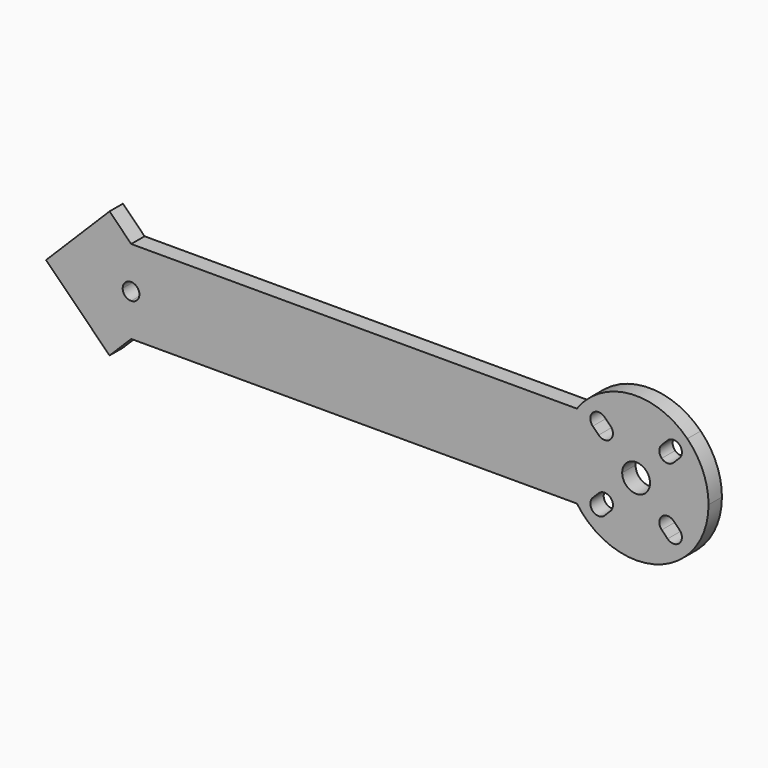
from build123d import *

# Parameters (mm, degrees)
F1_DEPTH = 3


with BuildPart() as f1:
    # F0 (on Front) → F1 (new body)
    with BuildSketch(Plane.XZ):
        with BuildLine():
            Line((0, 6.0002646259), (0, 0))
            Line((0, 0), (80, 0))
            ThreePointArc((80, 0), (77.6183802908, 7.5), (80, 15))
            Line((80, 15), (0, 15))
            Line((0, 15), (0, 8.9997353741))
            ThreePointArc((0, 8.9997353741), (1.0424004603, 8.5506517288), (1.4718254069, 7.5))
            ThreePointArc((1.4718254069, 7.5), (1.0424004603, 6.4493482712), (0, 6.0002646259))
        make_face()
        with BuildLine():
            Line((-3.8890872965, -3.8890872965), (0, 0))
            Line((0, 0), (0, 6.0002646259))
            ThreePointArc((0, 6.0002646259), (-1.0788263218, 6.4294249467), (-1.5281745931, 7.5))
            Line((-1.5281745931, 7.5), (-3.8890872965, 7.5))
            Line((-3.8890872965, 7.5), (-3.8890872965, -3.8890872965))
        make_face()
        with BuildLine():
            ThreePointArc((80, 15), (77.6183802908, 7.5), (80, 0))
            Line((80, 0), (80, 7.5))
            Line((80, 7.5), (80, 15))
        make_face()
        with BuildLine():
            Line((80, 7.5), (80, 0))
            ThreePointArc((80, 0), (94.5529105181, -4.89029749), (103.6183802908, 7.5))
            ThreePointArc((103.6183802908, 7.5), (102.6288142134, 12.4748846207), (99.8107684462, 16.6923881554))
            Line((99.8107684462, 16.6923881554), (98.3965548838, 15.2781745931))
            ThreePointArc((98.3965548838, 15.2781745931), (98.7217140108, 14.7915395698), (98.8358947121, 14.2175144213))
            ThreePointArc((98.8358947121, 14.2175144213), (98.7217140108, 13.6434892727), (98.3965548838, 13.1568542495))
            Line((98.3965548838, 13.1568542495), (97.3358947121, 12.0961940777))
            ThreePointArc((97.3358947121, 12.0961940777), (96.2752345403, 11.6568542495), (95.2145743685, 12.0961940777))
            Line((95.2145743685, 12.0961940777), (92.3861472438, 9.267766953))
            ThreePointArc((92.3861472438, 9.267766953), (92.9280791221, 8.4567085809), (93.1183802908, 7.5))
            ThreePointArc((93.1183802908, 7.5), (90.6183802908, 5), (88.1183802908, 7.5))
            Line((88.1183802908, 7.5), (80, 7.5))
        make_face()
        with BuildLine():
            ThreePointArc((83.9008658695, 2.9038059223), (85.5355511899, 3.2289650493), (86.4615260413, 1.8431457505))
            ThreePointArc((86.4615260413, 1.8431457505), (86.3473453401, 1.269120602), (86.0221862131, 0.7824855787))
            Line((86.0221862131, 0.7824855787), (84.9615260413, -0.2781745931))
            ThreePointArc((84.9615260413, -0.2781745931), (82.8402056977, -0.2781745931), (82.8402056977, 1.8431457505))
            Line((82.8402056977, 1.8431457505), (83.9008658695, 2.9038059223))
        make_face(mode=Mode.SUBTRACT)
        with BuildLine():
            ThreePointArc((95.2145743685, 0.7824855787), (95.2145743685, 2.9038059223), (97.3358947121, 2.9038059223))
            Line((97.3358947121, 2.9038059223), (98.3965548838, 1.8431457505))
            ThreePointArc((98.3965548838, 1.8431457505), (98.7217140108, 1.3565107273), (98.8358947121, 0.7824855787))
            ThreePointArc((98.8358947121, 0.7824855787), (97.9099198606, -0.60333372), (96.2752345403, -0.2781745931))
            Line((96.2752345403, -0.2781745931), (95.2145743685, 0.7824855787))
        make_face(mode=Mode.SUBTRACT)
        Polygon((-15.2781745931, 7.5), (-3.8890872965, -3.8890872965), (-3.8890872965, 7.5), align=None)
        with BuildLine():
            Line((80, 15), (80, 7.5))
            Line((80, 7.5), (88.1183802908, 7.5))
            ThreePointArc((88.1183802908, 7.5), (88.3086814595, 8.4567085809), (88.8506133378, 9.267766953))
            Line((88.8506133378, 9.267766953), (86.0221862131, 12.0961940777))
            ThreePointArc((86.0221862131, 12.0961940777), (84.9615260413, 11.6568542495), (83.9008658695, 12.0961940777))
            Line((83.9008658695, 12.0961940777), (82.8402056977, 13.1568542495))
            ThreePointArc((82.8402056977, 13.1568542495), (82.4008658695, 14.2175144213), (82.8402056977, 15.2781745931))
            Line((82.8402056977, 15.2781745931), (81.4259921354, 16.6923881554))
            ThreePointArc((81.4259921354, 16.6923881554), (80.6769175702, 15.8765935186), (80, 15))
        make_face()
        with BuildLine():
            Line((-3.8890872965, 7.5), (-1.5281745931, 7.5))
            ThreePointArc((-1.5281745931, 7.5), (-1.0788263218, 8.5705750533), (0, 8.9997353741))
            Line((0, 8.9997353741), (0, 15))
            Line((0, 15), (-3.8890872965, 18.8890872965))
            Line((-3.8890872965, 18.8890872965), (-3.8890872965, 7.5))
        make_face()
        Polygon((-3.8890872965, 18.8890872965), (-15.2781745931, 7.5), (-3.8890872965, 7.5), align=None)
        with BuildLine():
            ThreePointArc((99.8107684462, 16.6923881554), (90.6183802908, 20.5), (81.4259921354, 16.6923881554))
            Line((81.4259921354, 16.6923881554), (82.8402056977, 15.2781745931))
            ThreePointArc((82.8402056977, 15.2781745931), (83.9008658695, 15.7175144213), (84.9615260413, 15.2781745931))
            Line((84.9615260413, 15.2781745931), (86.0221862131, 14.2175144213))
            ThreePointArc((86.0221862131, 14.2175144213), (86.3473453401, 13.730879398), (86.4615260413, 13.1568542495))
            ThreePointArc((86.4615260413, 13.1568542495), (86.3473453401, 12.5828291009), (86.0221862131, 12.0961940777))
            Line((86.0221862131, 12.0961940777), (88.8506133378, 9.267766953))
            ThreePointArc((88.8506133378, 9.267766953), (90.6183802908, 10), (92.3861472438, 9.267766953))
            Line((92.3861472438, 9.267766953), (95.2145743685, 12.0961940777))
            ThreePointArc((95.2145743685, 12.0961940777), (94.7752345403, 13.1568542495), (95.2145743685, 14.2175144213))
            Line((95.2145743685, 14.2175144213), (96.2752345403, 15.2781745931))
            ThreePointArc((96.2752345403, 15.2781745931), (97.3358947121, 15.7175144213), (98.3965548838, 15.2781745931))
            Line((98.3965548838, 15.2781745931), (99.8107684462, 16.6923881554))
        make_face()
    extrude(amount=F1_DEPTH)


solid = f1.part
